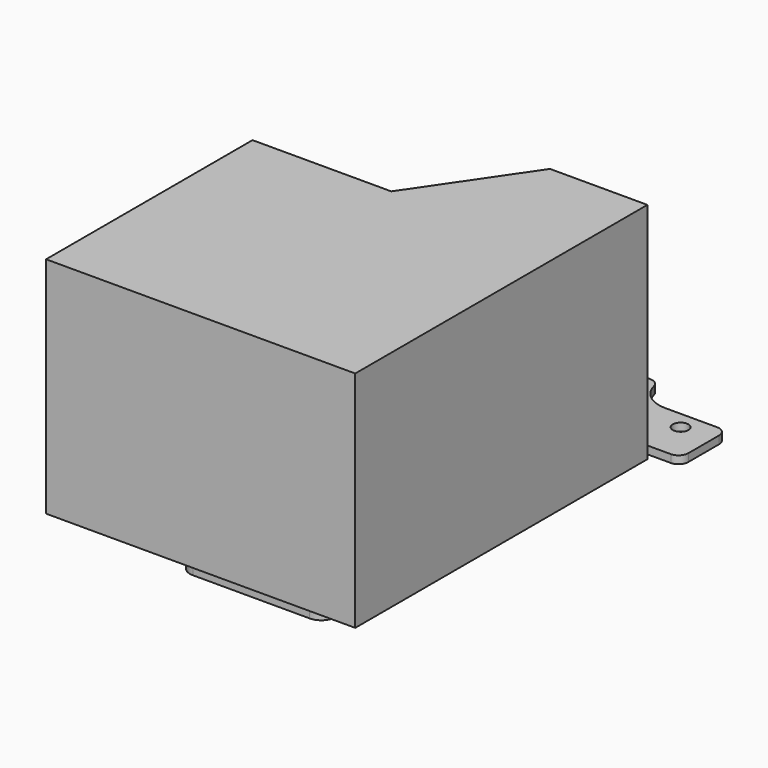
from build123d import *

# Parameters (mm, degrees)
F0_R     = 1.6
F2_DEPTH = 1.6
F3_DEPTH = 19.05
F4_DEPTH = 46
F5_DEPTH = 10
F6_DEPTH = 1.016
F7_R     = 2


with BuildPart() as f2:
    # F0 (on Top) → F2 (new body)
    with BuildSketch(Plane.XY):
        with BuildLine():
            Line((11.4379320294, 33.401), (35.56, 33.401))
            Line((35.56, 33.401), (35.56, 45.339))
            Line((35.56, 45.339), (22.86, 45.339))
            ThreePointArc((22.86, 45.339), (18.3698719395, 47.1988719395), (16.51, 51.689))
            Line((16.51, 51.689), (9, 51.689))
            Line((9, 51.689), (9, 47.999))
            Line((9, 47.999), (-9, 47.999))
            Line((-9, 47.999), (-9, 51.689))
            Line((-9, 51.689), (-16.51, 51.689))
            ThreePointArc((-16.51, 51.689), (-18.3698719395, 47.1988719395), (-22.86, 45.339))
            Line((-22.86, 45.339), (-35.56, 45.339))
            Line((-35.56, 45.339), (-35.56, 10.541))
            Line((-35.56, 10.541), (-5.08, 10.541))
            Line((-5.08, 10.541), (11.4379320294, 33.401))
        make_face()
        with Locations((-28.956, 42.126997942)):
            Circle(F0_R, mode=Mode.SUBTRACT)
        with Locations((28.956, 41.694)):
            Circle(F0_R, mode=Mode.SUBTRACT)
    extrude(amount=-F2_DEPTH)

    # F1 (on Top) → F3 (cut)
    with BuildSketch(Plane.XY):
        with BuildLine():
            Line((-12, -32.339), (12, -32.339))
            ThreePointArc((12, -32.339), (14.1213203436, -31.4603203436), (15, -29.339))
            Line((15, -29.339), (15, -5.339))
            ThreePointArc((15, -5.339), (14.1213203436, -3.2176796564), (12, -2.339))
            Line((12, -2.339), (-12, -2.339))
            ThreePointArc((-12, -2.339), (-14.1213203436, -3.2176796564), (-15, -5.339))
            Line((-15, -5.339), (-15, -29.339))
            ThreePointArc((-15, -29.339), (-14.1213203436, -31.4603203436), (-12, -32.339))
        make_face()
    extrude(amount=-F3_DEPTH, mode=Mode.SUBTRACT)

    # F1 (on Top) → F6 (cut)
    with BuildSketch(Plane.XY):
        Polygon((-31.75, 7.661), (-31.75, -45.339), (31.75, -45.339), (31.75, 29.661), (11.75, 29.661), (-3.25, 7.661), align=None)
        with BuildLine():
            ThreePointArc((15, -29.339), (14.1213203436, -31.4603203436), (12, -32.339))
            Line((12, -32.339), (-12, -32.339))
            ThreePointArc((-12, -32.339), (-14.1213203436, -31.4603203436), (-15, -29.339))
            Line((-15, -29.339), (-15, -5.339))
            ThreePointArc((-15, -5.339), (-14.1213203436, -3.2176796564), (-12, -2.339))
            Line((-12, -2.339), (12, -2.339))
            ThreePointArc((12, -2.339), (14.1213203436, -3.2176796564), (15, -5.339))
            Line((15, -5.339), (15, -29.339))
        make_face(mode=Mode.SUBTRACT)
        Polygon((-31.75, 7.661), (-31.75, -45.339), (31.75, -45.339), (31.75, 29.661), (11.75, 29.661), (-3.25, 7.661), align=None)
        with BuildLine():
            ThreePointArc((15, -29.339), (14.1213203436, -31.4603203436), (12, -32.339))
            Line((12, -32.339), (-12, -32.339))
            ThreePointArc((-12, -32.339), (-14.1213203436, -31.4603203436), (-15, -29.339))
            Line((-15, -29.339), (-15, -5.339))
            ThreePointArc((-15, -5.339), (-14.1213203436, -3.2176796564), (-12, -2.339))
            Line((-12, -2.339), (12, -2.339))
            ThreePointArc((12, -2.339), (14.1213203436, -3.2176796564), (15, -5.339))
            Line((15, -5.339), (15, -29.339))
        make_face(mode=Mode.SUBTRACT)
    extrude(amount=-F6_DEPTH, mode=Mode.SUBTRACT)

    # F7
    f7_edges = [f2.edges().sort_by_distance(p)[0] for p in [
        (-16.51, 51.689, -0.8),
        (-35.56, 45.339, -0.8),
        (-35.56, 10.541, -0.8),
        (-5.08, 10.541, -0.8),
        (35.56, 33.401, -0.8),
        (16.51, 51.689, -0.8),
        (35.56, 45.339, -0.8),
    ]]
    fillet(f7_edges, radius=F7_R)


with BuildPart() as f4:
    # F1 (on Top) → F4 (new body)
    with BuildSketch(Plane.XY):
        Polygon((-31.75, 7.661), (-31.75, -45.339), (31.75, -45.339), (31.75, 29.661), (11.75, 29.661), (-3.25, 7.661), align=None)
        with BuildLine():
            ThreePointArc((15, -29.339), (14.1213203436, -31.4603203436), (12, -32.339))
            Line((12, -32.339), (-12, -32.339))
            ThreePointArc((-12, -32.339), (-14.1213203436, -31.4603203436), (-15, -29.339))
            Line((-15, -29.339), (-15, -5.339))
            ThreePointArc((-15, -5.339), (-14.1213203436, -3.2176796564), (-12, -2.339))
            Line((-12, -2.339), (12, -2.339))
            ThreePointArc((12, -2.339), (14.1213203436, -3.2176796564), (15, -5.339))
            Line((15, -5.339), (15, -29.339))
        make_face(mode=Mode.SUBTRACT)
        with BuildLine():
            Line((-12, -32.339), (12, -32.339))
            ThreePointArc((12, -32.339), (14.1213203436, -31.4603203436), (15, -29.339))
            Line((15, -29.339), (15, -5.339))
            ThreePointArc((15, -5.339), (14.1213203436, -3.2176796564), (12, -2.339))
            Line((12, -2.339), (-12, -2.339))
            ThreePointArc((-12, -2.339), (-14.1213203436, -3.2176796564), (-15, -5.339))
            Line((-15, -5.339), (-15, -29.339))
            ThreePointArc((-15, -29.339), (-14.1213203436, -31.4603203436), (-12, -32.339))
        make_face()
    extrude(amount=F4_DEPTH)

    # F1 (on Top) → F5 (join)
    with BuildSketch(Plane.XY):
        with BuildLine():
            Line((-12, -32.339), (12, -32.339))
            ThreePointArc((12, -32.339), (14.1213203436, -31.4603203436), (15, -29.339))
            Line((15, -29.339), (15, -5.339))
            ThreePointArc((15, -5.339), (14.1213203436, -3.2176796564), (12, -2.339))
            Line((12, -2.339), (-12, -2.339))
            ThreePointArc((-12, -2.339), (-14.1213203436, -3.2176796564), (-15, -5.339))
            Line((-15, -5.339), (-15, -29.339))
            ThreePointArc((-15, -29.339), (-14.1213203436, -31.4603203436), (-12, -32.339))
        make_face()
    extrude(amount=-F5_DEPTH)


solid = Compound([f2.part, f4.part])
